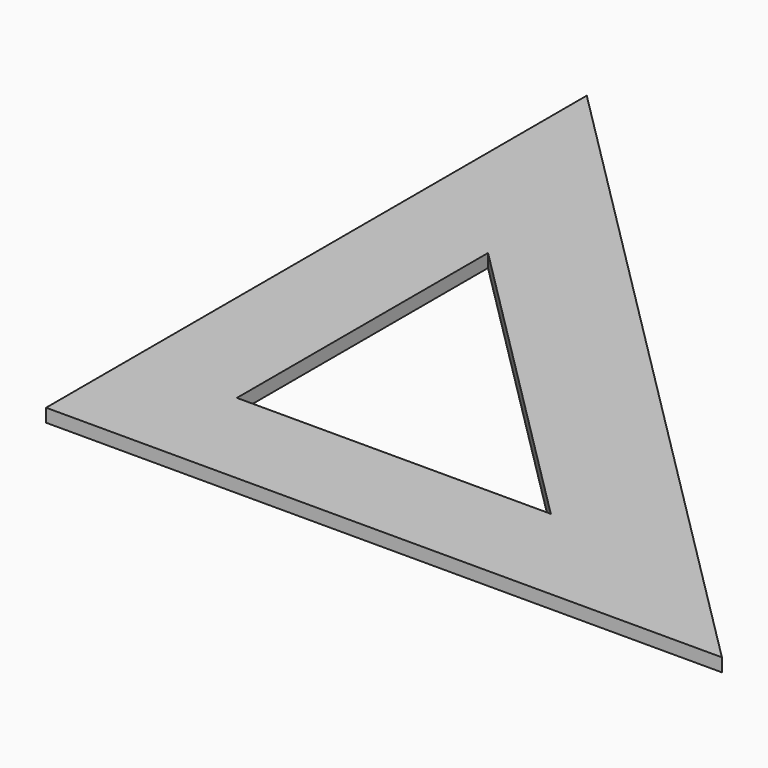
from build123d import *

# Parameters (mm, degrees)
F1_DEPTH = 1.5875
F3_DEPTH = 3.176


with BuildPart() as f1:
    # F0 (on Top) → F1 (new body, symmetric)
    with BuildSketch(Plane.XY):
        Polygon((-80.9625, -80.9625), (80.9625, -80.9625), (-80.9625, 80.9625), align=None)
    extrude(amount=F1_DEPTH, both=True)

    # F2 (on face) → F3 (cut, through all)
    with BuildSketch(Plane.XY.offset(1.5875)):
        Polygon((19.641476, -55.5625), (-55.5625, 19.641476), (-55.5625, -55.5625), align=None)
    extrude(amount=-F3_DEPTH, mode=Mode.SUBTRACT)


solid = f1.part
